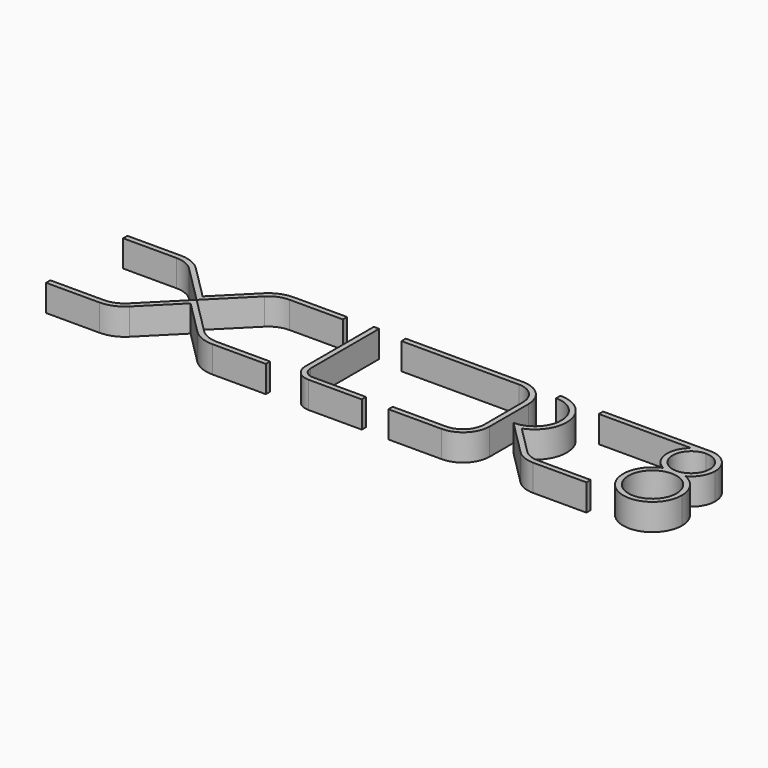
from build123d import *

# Parameters (mm, degrees)
F0_R     = 4.5
F1_DEPTH = 5


with BuildPart() as f1:
    # F0 (on Top) → F1 (new body)
    with BuildSketch(Plane.XY):
        with BuildLine():
            Line((-0.004, 0.004), (0, 0))
            Line((0, 0), (0.004, 0.004))
            Line((0.004, 0.004), (7.071068, 7.071068))
            ThreePointArc((7.071068, 7.071068), (8.693185, 8.154932), (10.606602, 8.535534))
            Line((10.606602, 8.535534), (20.606602, 8.535534))
            Line((20.606602, 8.535534), (20.606602, 9.535534))
            Line((20.606602, 9.535534), (10.606602, 9.535534))
            ThreePointArc((10.606602, 9.535534), (8.310501, 9.078811), (6.363961, 7.778175))
            Line((6.363961, 7.778175), (0, 1.414214))
            Line((0, 1.414214), (-6.363961, 7.778175))
            ThreePointArc((-6.363961, 7.778175), (-8.310501, 9.078811), (-10.606602, 9.535534))
            Line((-10.606602, 9.535534), (-20.606602, 9.535534))
            Line((-20.606602, 9.535534), (-20.606602, 8.535534))
            Line((-20.606602, 8.535534), (-10.606602, 8.535534))
            ThreePointArc((-10.606602, 8.535534), (-8.693185, 8.154932), (-7.071068, 7.071068))
            Line((-7.071068, 7.071068), (-0.004, 0.004))
        make_face()
        with BuildLine():
            Line((0.004, -0.004), (0, 0))
            Line((0, 0), (-0.004, -0.004))
            Line((-0.004, -0.004), (-7.071068, -7.071068))
            ThreePointArc((-7.071068, -7.071068), (-8.693185, -8.154932), (-10.606602, -8.535534))
            Line((-10.606602, -8.535534), (-20.606602, -8.535534))
            Line((-20.606602, -8.535534), (-20.606602, -9.535534))
            Line((-20.606602, -9.535534), (-10.606602, -9.535534))
            ThreePointArc((-10.606602, -9.535534), (-8.310501, -9.078811), (-6.363961, -7.778175))
            Line((-6.363961, -7.778175), (0, -1.414214))
            Line((0, -1.414214), (6.363961, -7.778175))
            ThreePointArc((6.363961, -7.778175), (8.310501, -9.078811), (10.606602, -9.535534))
            Line((10.606602, -9.535534), (20.606602, -9.535534))
            Line((20.606602, -9.535534), (20.606602, -8.535534))
            Line((20.606602, -8.535534), (10.606602, -8.535534))
            ThreePointArc((10.606602, -8.535534), (8.693185, -8.154932), (7.071068, -7.071068))
            Line((7.071068, -7.071068), (0.004, -0.004))
        make_face()
        Polygon((0.004, 0.004), (0, 0), (0.004, -0.004), align=None)
        Polygon((-0.004, -0.004), (0, 0), (-0.004, 0.004), align=None)
        with BuildLine():
            Line((26.606602, 9.535534), (25.606602, 9.535534))
            Line((25.606602, 9.535534), (25.606602, -6.535534))
            ThreePointArc((25.606602, -6.535534), (26.485281, -8.656854), (28.606602, -9.535534))
            Line((28.606602, -9.535534), (38.606602, -9.535534))
            Line((38.606602, -9.535534), (38.606602, -8.535534))
            Line((38.606602, -8.535534), (28.606602, -8.535534))
            ThreePointArc((28.606602, -8.535534), (27.192388, -7.949747), (26.606602, -6.535534))
            Line((26.606602, -6.535534), (26.606602, 9.535534))
        make_face()
        with BuildLine():
            Line((43.606602, -8.535534), (43.606602, -9.535534))
            Line((43.606602, -9.535534), (53.606602, -9.535534))
            ThreePointArc((53.606602, -9.535534), (57.142136, -8.071068), (58.606602, -4.535534))
            Line((58.606602, -4.535534), (58.606602, 4.535534))
            ThreePointArc((58.606602, 4.535534), (57.142136, 8.071068), (53.606602, 9.535534))
            Line((53.606602, 9.535534), (31.606602, 9.535534))
            Line((31.606602, 9.535534), (31.606602, 8.535534))
            Line((31.606602, 8.535534), (53.606602, 8.535534))
            ThreePointArc((53.606602, 8.535534), (56.435029, 7.363961), (57.606602, 4.535534))
            Line((57.606602, 4.535534), (57.606602, -4.535534))
            ThreePointArc((57.606602, -4.535534), (56.435029, -7.363961), (53.606602, -8.535534))
            Line((53.606602, -8.535534), (43.606602, -8.535534))
        make_face()
        with BuildLine():
            ThreePointArc((60.606602, 8.535534), (65.606602, 3.535534), (60.606602, -1.464466))
            Line((60.606602, -1.464466), (67.213203, -8.071068))
            ThreePointArc((67.213203, -8.071068), (68.83532, -9.154932), (70.748737, -9.535534))
            Line((70.748737, -9.535534), (80.748737, -9.535534))
            Line((80.748737, -9.535534), (80.748737, -8.535534))
            Line((80.748737, -8.535534), (70.748737, -8.535534))
            ThreePointArc((70.748737, -8.535534), (69.218004, -8.231052), (67.92031, -7.363961))
            Line((67.92031, -7.363961), (62.658905, -2.102556))
            ThreePointArc((62.658905, -2.102556), (66.515431, 4.577518), (60.606602, 9.535534))
            Line((60.606602, 9.535534), (60.606602, 8.535534))
        make_face()
        with BuildLine():
            Line((68.606602, 8.535534), (85.92031, 8.535534))
            ThreePointArc((85.92031, 8.535534), (87.248737, 9.278175), (88.748737, 9.535534))
            Line((88.748737, 9.535534), (68.606602, 9.535534))
            Line((68.606602, 9.535534), (68.606602, 8.535534))
        make_face()
        with BuildLine():
            ThreePointArc((86.657062, 1.051203), (88.748737, 1.464466), (90.840413, 1.051203))
            ThreePointArc((90.840413, 1.051203), (92.599876, 2.707717), (93.248737, 5.035534))
            ThreePointArc((93.248737, 5.035534), (91.930718, 8.217514), (88.748737, 9.535534))
            Line((88.748737, 9.535534), (88.748737, 8.535534))
            Line((88.748737, 8.535534), (85.92031, 8.535534))
            ThreePointArc((85.92031, 8.535534), (84.270383, 4.594688), (86.657062, 1.051203))
        make_face()
        with BuildLine():
            ThreePointArc((92.248737, 5.035534), (86.273864, 2.56066), (88.748737, 8.535534))
            ThreePointArc((88.748737, 8.535534), (91.223611, 7.510408), (92.248737, 5.035534))
        make_face(mode=Mode.SUBTRACT)
        with BuildLine():
            ThreePointArc((88.748737, 9.535534), (87.248737, 9.278175), (85.92031, 8.535534))
            Line((85.92031, 8.535534), (88.748737, 8.535534))
            Line((88.748737, 8.535534), (88.748737, 9.535534))
        make_face()
        with BuildLine():
            ThreePointArc((86.657062, 1.051203), (88.748737, 0.535534), (90.840413, 1.051203))
            ThreePointArc((90.840413, 1.051203), (88.748737, 1.464466), (86.657062, 1.051203))
        make_face()
        with BuildLine():
            ThreePointArc((86.657062, 1.051203), (85.687219, -8.604681), (94.248737, -4.035534))
            ThreePointArc((94.248737, -4.035534), (93.317885, -0.974016), (90.840413, 1.051203))
            ThreePointArc((90.840413, 1.051203), (88.748737, 0.535534), (86.657062, 1.051203))
        make_face()
        with Locations((88.748737, -4.035534)):
            Circle(F0_R, mode=Mode.SUBTRACT)
    extrude(amount=F1_DEPTH)


solid = f1.part
